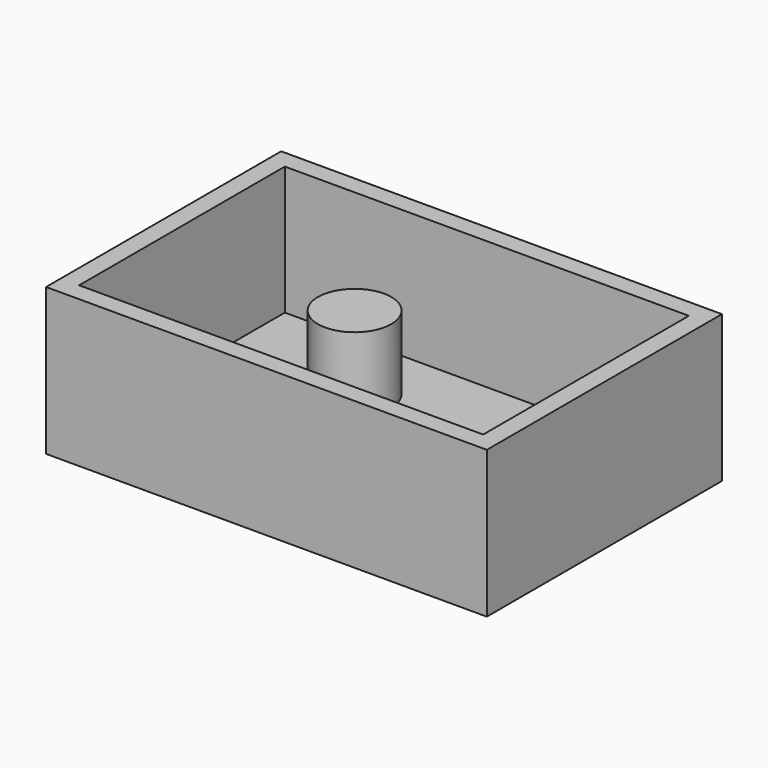
from build123d import *

# Parameters (mm, degrees)
F0_W     = 152.4
F0_H     = 101.6
F1_DEPTH = 50.8
F2_T     = -6.35
F3_R     = 12.7
F4_DEPTH = 25.4


with BuildPart() as f1:
    # F0 (on Top) → F1 (new body)
    with BuildSketch(Plane.XY):
        Rectangle(F0_W, F0_H)
    extrude(amount=F1_DEPTH)

    # F2
    f2_openings = [f1.faces().sort_by_distance(p)[0] for p in [
        (0, 0, 50.8),
    ]]
    offset(amount=F2_T, openings=f2_openings)

    # F3 (on face) → F4 (join)
    with BuildSketch(Plane.XY.offset(6.35)):
        with Locations((-25.4, 19.05)):
            Circle(F3_R)
    extrude(amount=F4_DEPTH)


solid = f1.part
